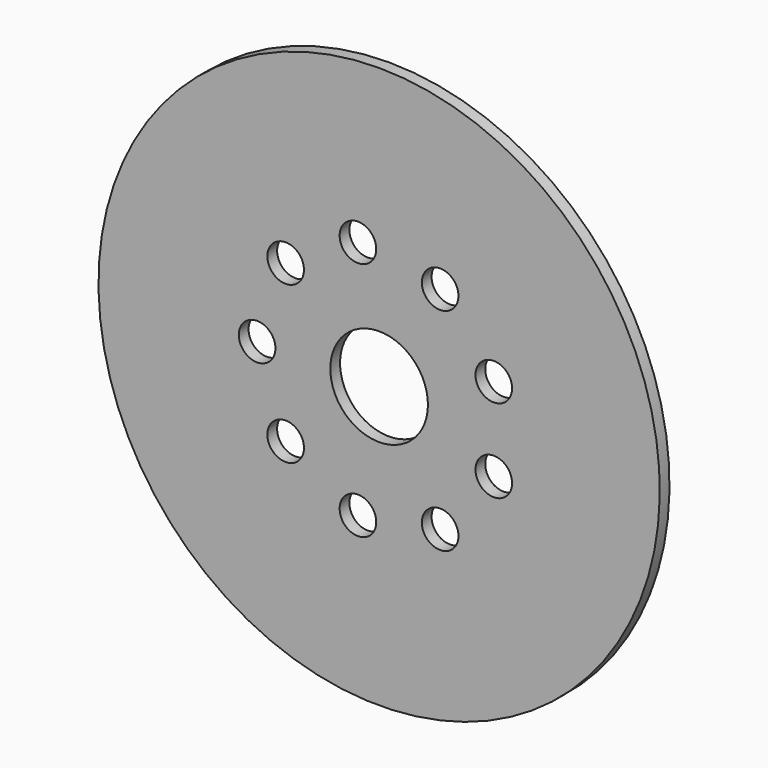
from build123d import *

# Parameters (mm, degrees)
F0_W     = 0.79375
F0_H     = 18.25625
F2_R     = 3.175
F2_R_2   = 1.190625
F3_DEPTH = 0.79375


with BuildPart() as f1:
    # F0 (on Right) → F1 (revolve)
    with BuildSketch(Plane.YZ):
        with Locations((-117.871875, 9.128125)):
            Rectangle(F0_W, F0_H)
    revolve(axis=Axis((0, -58.7375, 0), (0, -1, 0)))

    # F2 (on face) → F3 (cut, through all)
    with BuildSketch(Plane.XZ.offset(118.26875)):
        Circle(F2_R)
        with Locations((-7.9375, 0)):
            Circle(F2_R_2)
        with Locations((-6.080478, -5.102127)):
            Circle(F2_R_2)
        with Locations((-1.378332, -7.816912)):
            Circle(F2_R_2)
        with Locations((3.96875, -6.874077)):
            Circle(F2_R_2)
        with Locations((7.45881, -2.714785)):
            Circle(F2_R_2)
        with Locations((7.45881, 2.714785)):
            Circle(F2_R_2)
        with Locations((3.96875, 6.874077)):
            Circle(F2_R_2)
        with Locations((-1.378332, 7.816912)):
            Circle(F2_R_2)
        with Locations((-6.080478, 5.102127)):
            Circle(F2_R_2)
    extrude(amount=-F3_DEPTH, mode=Mode.SUBTRACT)


solid = f1.part
